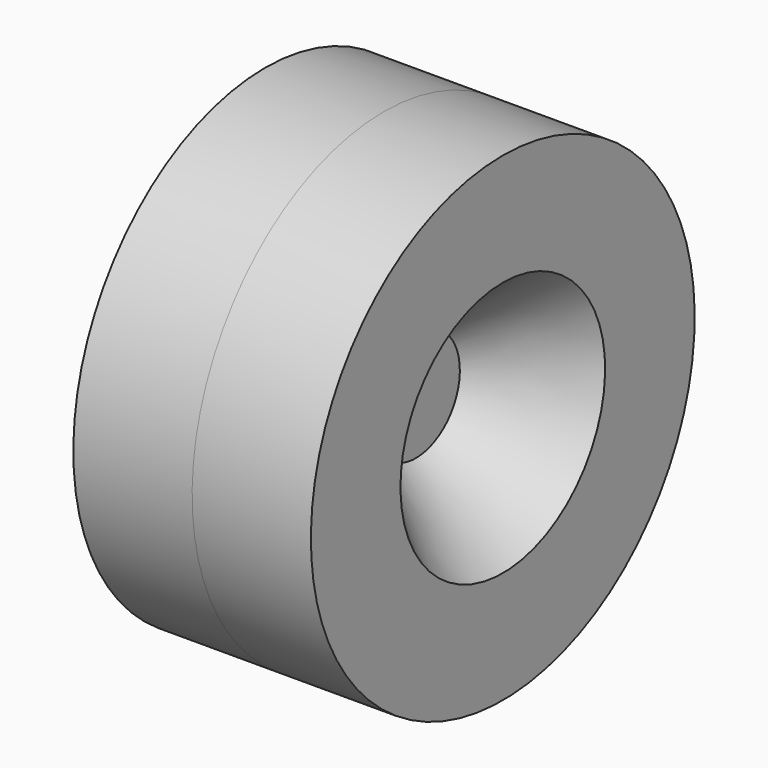
from build123d import *


with BuildPart() as f1:
    # F0 (on Front) → F1 (revolve)
    with BuildSketch(Plane.XZ):
        Polygon((26, 52.5), (0, 52.5), (0, 33.5), (18, 33.5), (18, 28), (0, 16), (0, 0), (7, 0), (7, 12), (26, 28), (26, 33.5), align=None)
    revolve(axis=Axis((3.5, 0, 0), (-1, 0, 0)))

    # F2: F1 across plane


with BuildPart() as f1_1:
    add(f1.part)
    add(f1.part.mirror(Plane.YZ))


solid = f1_1.part
